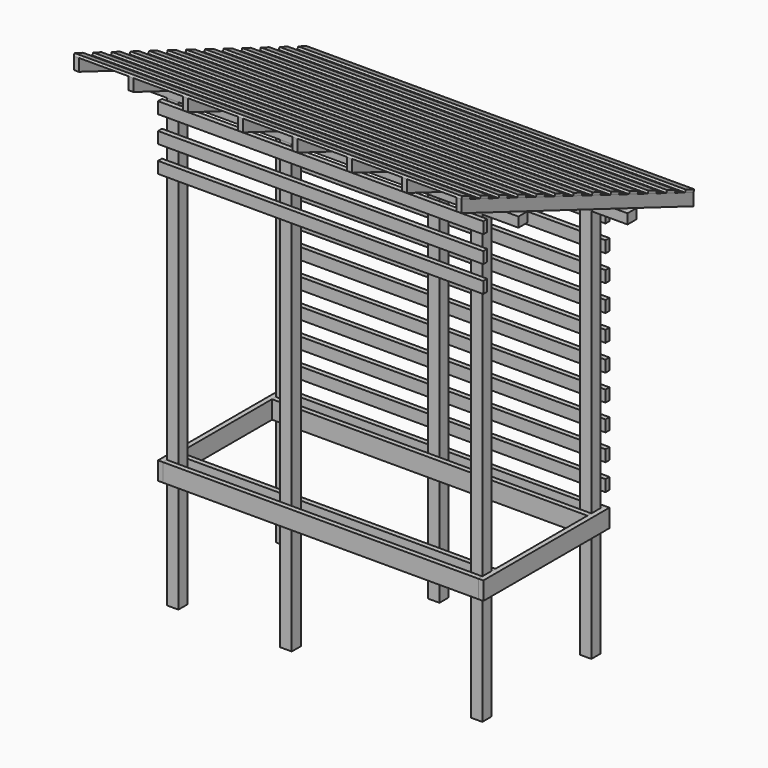
from build123d import *

# Parameters (mm, degrees)
F0_W           = 88.9
F0_H           = 88.9
F1_DEPTH       = 2667
F1_DEPTH_BACK  = 990.6
F2_W           = 38.1
F2_H           = 139.7
F3_DEPTH       = 2438.4
F4_W           = 38.1
F4_H           = 139.7
F5_DEPTH       = 1219.2
F6_W           = 1034.9947816896
F6_H           = 1003.2364382432
F6_W_2         = 556.0437153659
F6_H_2         = 436.7962663423
F7_DEPTH       = 2540
F10_W          = 88.9
F10_H          = 38.1
F11_DEPTH      = 2997.2
F14_W          = 38.1
F14_H          = 88.9
F15_DEPTH      = 914.4
F15_DEPTH_BACK = 2032
F16_W          = 807.5764443283
F16_H          = 1532.935500145
F16_W_2        = 1021.5139506448
F16_H_2        = 1471.8725383458
F17_DEPTH      = 3302
F19_DEPTH      = 2996.692
F20_W          = 38.1
F20_H          = 88.9
F21_DEPTH      = 2514.6


with BuildPart() as f1:
    # F0 (on Top) → F1 (new body, two sides)
    with BuildSketch(Plane.XY) as f1_sk:
        with Locations((44.45, 44.45)):
            Rectangle(F0_W, F0_H)
    extrude(amount=F1_DEPTH)
    extrude(f1_sk.sketch, amount=-F1_DEPTH_BACK)


with BuildPart() as f1b:
    # F0 (on Top) → F1, piece 2 (new body, two sides)
    with BuildSketch(Plane.XY) as f1_2_sk:
        with Locations((2393.95, 44.45)):
            Rectangle(F0_W, F0_H)
    extrude(amount=F1_DEPTH)
    extrude(f1_2_sk.sketch, amount=-F1_DEPTH_BACK)


with BuildPart() as f1c:
    # F0 (on Top) → F1, piece 3 (new body, two sides)
    with BuildSketch(Plane.XY) as f1_3_sk:
        with Locations((44.45, 1098.55)):
            Rectangle(F0_W, F0_H)
    extrude(amount=F1_DEPTH)
    extrude(f1_3_sk.sketch, amount=-F1_DEPTH_BACK)


with BuildPart() as f1d:
    # F0 (on Top) → F1, piece 4 (new body, two sides)
    with BuildSketch(Plane.XY) as f1_4_sk:
        with Locations((2393.95, 1098.55)):
            Rectangle(F0_W, F0_H)
    extrude(amount=F1_DEPTH)
    extrude(f1_4_sk.sketch, amount=-F1_DEPTH_BACK)


with BuildPart() as f1e:
    # F0 (on Top) → F1, piece 5 (new body, two sides)
    with BuildSketch(Plane.XY) as f1_5_sk:
        with Locations((920.75, 44.45)):
            Rectangle(F0_W, F0_H)
    extrude(amount=F1_DEPTH)
    extrude(f1_5_sk.sketch, amount=-F1_DEPTH_BACK)


with BuildPart() as f1f:
    # F0 (on Top) → F1, piece 6 (new body, two sides)
    with BuildSketch(Plane.XY) as f1_6_sk:
        with Locations((1219.2, 1098.55)):
            Rectangle(F0_W, F0_H)
    extrude(amount=F1_DEPTH)
    extrude(f1_6_sk.sketch, amount=-F1_DEPTH_BACK)


with BuildPart() as f3:
    # F2 (on Right) → F3 (new body)
    with BuildSketch(Plane.YZ):
        with Locations((-19.05, -69.85)):
            Rectangle(F2_W, F2_H)
    extrude(amount=F3_DEPTH)


with BuildPart() as f3b:
    # F2 (on Right) → F3, piece 2 (new body)
    with BuildSketch(Plane.YZ):
        with Locations((1162.05, -69.85)):
            Rectangle(F2_W, F2_H)
    extrude(amount=F3_DEPTH)


with BuildPart() as f3c:
    # F2 (on Right) → F3, piece 3 (new body)
    with BuildSketch(Plane.YZ):
        with Locations((1035.05, -69.85)):
            Rectangle(F2_W, F2_H)
    extrude(amount=F3_DEPTH)


with BuildPart() as f3d:
    # F2 (on Right) → F3, piece 4 (new body)
    with BuildSketch(Plane.YZ):
        with Locations((107.95, -69.85)):
            Rectangle(F2_W, F2_H)
    extrude(amount=F3_DEPTH)


with BuildPart() as f5:
    # F4 (on face) → F5 (new body)
    with BuildSketch(Plane.XZ.offset(38.1)):
        with Locations((-19.05, -69.85)):
            Rectangle(F4_W, F4_H)
    extrude(amount=-F5_DEPTH)


with BuildPart() as f5b:
    # F4 (on face) → F5, piece 2 (new body)
    with BuildSketch(Plane.XZ.offset(38.1)):
        with Locations((2457.45, -69.85)):
            Rectangle(F4_W, F4_H)
    extrude(amount=-F5_DEPTH)


with BuildPart() as f7_tool:
    # F6 (on face) → F7 (new body)
    with BuildSketch(Plane(origin=(-38.1, 0, 0), x_dir=(0, -1, 0), z_dir=(-1, 0, 0))):
        with Locations((-1108.8803946334, 2559.0182191216)):
            Rectangle(F6_W, F6_H)
        with Locations((-95.808646351, 2682.1981331711)):
            Rectangle(F6_W_2, F6_H_2)
    extrude(amount=-F7_DEPTH)


with BuildPart() as f1_1:
    add(f1.part)

    # F7: cut by f7_tool
    add(f7_tool.part, mode=Mode.SUBTRACT)


with BuildPart() as f1b_1:
    add(f1b.part)

    # F7: cut by f7_tool
    add(f7_tool.part, mode=Mode.SUBTRACT)


with BuildPart() as f1c_1:
    add(f1c.part)

    # F7: cut by f7_tool
    add(f7_tool.part, mode=Mode.SUBTRACT)


with BuildPart() as f1d_1:
    add(f1d.part)

    # F7: cut by f7_tool
    add(f7_tool.part, mode=Mode.SUBTRACT)


with BuildPart() as f1e_1:
    add(f1e.part)

    # F7: cut by f7_tool
    add(f7_tool.part, mode=Mode.SUBTRACT)


with BuildPart() as f1f_1:
    add(f1f.part)

    # F7: cut by f7_tool
    add(f7_tool.part, mode=Mode.SUBTRACT)


with BuildPart() as f11:
    # F10 (on offset) → F11 (new body, through all)
    with BuildSketch(Plane(origin=(-279.4, 0, 0), x_dir=(0, -1, 0), z_dir=(-1, 0, 0))):
        with Locations((-1098.55, 2114.55)):
            Rectangle(F10_W, F10_H)
        with Locations((-1098.55, 2076.45)):
            Rectangle(F10_W, F10_H)
    extrude(amount=-F11_DEPTH)


with BuildPart() as f11b:
    # F10 (on offset) → F11, piece 2 (new body, through all)
    with BuildSketch(Plane(origin=(-279.4, 0, 0), x_dir=(0, -1, 0), z_dir=(-1, 0, 0))):
        with Locations((-44.45, 2520.95)):
            Rectangle(F10_W, F10_H)
        with Locations((-44.45, 2482.85)):
            Rectangle(F10_W, F10_H)
    extrude(amount=-F11_DEPTH)


with BuildPart() as f15:
    # F14 (on face) → F15 (new body, two sides)
    with BuildSketch(Plane(origin=(0, -775.1558069, 298.855250853), x_dir=(1, 0, 0), z_dir=(0, -0.9330555694, 0.3597322677))) as f15_sk:
        with Locations((-260.35, 2446.3913448431)):
            Rectangle(F14_W, F14_H)
    extrude(amount=F15_DEPTH)
    extrude(f15_sk.sketch, amount=-F15_DEPTH_BACK)


with BuildPart() as f15b:
    # F14 (on face) → F15, piece 2 (new body, two sides)
    with BuildSketch(Plane(origin=(0, -775.1558069, 298.855250853), x_dir=(1, 0, 0), z_dir=(0, -0.9330555694, 0.3597322677))) as f15_2_sk:
        with Locations((162.306, 2446.3913448431)):
            Rectangle(F14_W, F14_H)
    extrude(amount=F15_DEPTH)
    extrude(f15_2_sk.sketch, amount=-F15_DEPTH_BACK)


with BuildPart() as f15c:
    # F14 (on face) → F15, piece 3 (new body, two sides)
    with BuildSketch(Plane(origin=(0, -775.1558069, 298.855250853), x_dir=(1, 0, 0), z_dir=(0, -0.9330555694, 0.3597322677))) as f15_3_sk:
        with Locations((584.962, 2446.3913448431)):
            Rectangle(F14_W, F14_H)
    extrude(amount=F15_DEPTH)
    extrude(f15_3_sk.sketch, amount=-F15_DEPTH_BACK)


with BuildPart() as f15d:
    # F14 (on face) → F15, piece 4 (new body, two sides)
    with BuildSketch(Plane(origin=(0, -775.1558069, 298.855250853), x_dir=(1, 0, 0), z_dir=(0, -0.9330555694, 0.3597322677))) as f15_4_sk:
        with Locations((1007.618, 2446.3913448431)):
            Rectangle(F14_W, F14_H)
    extrude(amount=F15_DEPTH)
    extrude(f15_4_sk.sketch, amount=-F15_DEPTH_BACK)


with BuildPart() as f15e:
    # F14 (on face) → F15, piece 5 (new body, two sides)
    with BuildSketch(Plane(origin=(0, -775.1558069, 298.855250853), x_dir=(1, 0, 0), z_dir=(0, -0.9330555694, 0.3597322677))) as f15_5_sk:
        with Locations((1430.274, 2446.3913448431)):
            Rectangle(F14_W, F14_H)
    extrude(amount=F15_DEPTH)
    extrude(f15_5_sk.sketch, amount=-F15_DEPTH_BACK)


with BuildPart() as f15f:
    # F14 (on face) → F15, piece 6 (new body, two sides)
    with BuildSketch(Plane(origin=(0, -775.1558069, 298.855250853), x_dir=(1, 0, 0), z_dir=(0, -0.9330555694, 0.3597322677))) as f15_6_sk:
        with Locations((1852.93, 2446.3913448431)):
            Rectangle(F14_W, F14_H)
    extrude(amount=F15_DEPTH)
    extrude(f15_6_sk.sketch, amount=-F15_DEPTH_BACK)


with BuildPart() as f15g:
    # F14 (on face) → F15, piece 7 (new body, two sides)
    with BuildSketch(Plane(origin=(0, -775.1558069, 298.855250853), x_dir=(1, 0, 0), z_dir=(0, -0.9330555694, 0.3597322677))) as f15_7_sk:
        with Locations((2275.586, 2446.3913448431)):
            Rectangle(F14_W, F14_H)
    extrude(amount=F15_DEPTH)
    extrude(f15_7_sk.sketch, amount=-F15_DEPTH_BACK)


with BuildPart() as f15h:
    # F14 (on face) → F15, piece 8 (new body, two sides)
    with BuildSketch(Plane(origin=(0, -775.1558069, 298.855250853), x_dir=(1, 0, 0), z_dir=(0, -0.9330555694, 0.3597322677))) as f15_8_sk:
        with Locations((2698.242, 2446.3913448431)):
            Rectangle(F14_W, F14_H)
    extrude(amount=F15_DEPTH)
    extrude(f15_8_sk.sketch, amount=-F15_DEPTH_BACK)


with BuildPart() as f17_tool:
    # F16 (on face) → F17 (new body)
    with BuildSketch(Plane.YZ.offset(2717.292)):
        with Locations((-953.8252221642, 2670.2895760536)):
            Rectangle(F16_W, F16_H)
        with Locations((2203.902477116, 1890.4313892214)):
            Rectangle(F16_W_2, F16_H_2)
    extrude(amount=-F17_DEPTH)


with BuildPart() as f15_1:
    add(f15.part)

    # F17: cut by f17_tool
    add(f17_tool.part, mode=Mode.SUBTRACT)


with BuildPart() as f15b_1:
    add(f15b.part)

    # F17: cut by f17_tool
    add(f17_tool.part, mode=Mode.SUBTRACT)


with BuildPart() as f15c_1:
    add(f15c.part)

    # F17: cut by f17_tool
    add(f17_tool.part, mode=Mode.SUBTRACT)


with BuildPart() as f15d_1:
    add(f15d.part)

    # F17: cut by f17_tool
    add(f17_tool.part, mode=Mode.SUBTRACT)


with BuildPart() as f15e_1:
    add(f15e.part)

    # F17: cut by f17_tool
    add(f17_tool.part, mode=Mode.SUBTRACT)


with BuildPart() as f15f_1:
    add(f15f.part)

    # F17: cut by f17_tool
    add(f17_tool.part, mode=Mode.SUBTRACT)


with BuildPart() as f15g_1:
    add(f15g.part)

    # F17: cut by f17_tool
    add(f17_tool.part, mode=Mode.SUBTRACT)


with BuildPart() as f15h_1:
    add(f15h.part)

    # F17: cut by f17_tool
    add(f17_tool.part, mode=Mode.SUBTRACT)


with BuildPart() as f19:
    # F18 (on face) → F19 (new body, through all)
    with BuildSketch(Plane.YZ.offset(2717.292)):
        Polygon((1610.1968616751, 2048.7542639932), (1693.1455017936, 2016.7740653932), (1699.9984014935, 2034.5487739901), (1617.049761375, 2066.52897259), align=None)
    extrude(amount=-F19_DEPTH)


with BuildPart() as f19b:
    # F18 (on face) → F19, piece 2 (new body, through all)
    with BuildSketch(Plane.YZ.offset(2717.292)):
        Polygon((1430.0788497916, 2118.1944785317), (1513.0274899101, 2086.2142799318), (1519.8803896101, 2103.9889885287), (1436.9317494916, 2135.9691871286), align=None)
    extrude(amount=-F19_DEPTH)


with BuildPart() as f19c:
    # F18 (on face) → F19, piece 3 (new body, through all)
    with BuildSketch(Plane.YZ.offset(2717.292)):
        Polygon((1249.9608379082, 2187.6346930703), (1332.9094780267, 2155.6544944704), (1339.7623777267, 2173.4292030673), (1256.8137376082, 2205.4094016672), align=None)
    extrude(amount=-F19_DEPTH)


with BuildPart() as f19d:
    # F18 (on face) → F19, piece 4 (new body, through all)
    with BuildSketch(Plane.YZ.offset(2717.292)):
        Polygon((1069.8428260248, 2257.0749076089), (1152.7914661433, 2225.094709009), (1159.6443658433, 2242.8694176058), (1076.6957257248, 2274.8496162058), align=None)
    extrude(amount=-F19_DEPTH)


with BuildPart() as f19e:
    # F18 (on face) → F19, piece 5 (new body, through all)
    with BuildSketch(Plane.YZ.offset(2717.292)):
        Polygon((889.7248141414, 2326.5151221475), (972.6734542599, 2294.5349235476), (979.5263539599, 2312.3096321444), (896.5777138414, 2344.2898307443), align=None)
    extrude(amount=-F19_DEPTH)


with BuildPart() as f19f:
    # F18 (on face) → F19, piece 6 (new body, through all)
    with BuildSketch(Plane.YZ.offset(2717.292)):
        Polygon((709.606802258, 2395.9553366861), (792.5554423765, 2363.9751380862), (799.4083420765, 2381.749846683), (716.459701958, 2413.7300452829), align=None)
    extrude(amount=-F19_DEPTH)


with BuildPart() as f19g:
    # F18 (on face) → F19, piece 7 (new body, through all)
    with BuildSketch(Plane.YZ.offset(2717.292)):
        Polygon((529.4887903746, 2465.3955512247), (612.4374304931, 2433.4153526248), (619.290330193, 2451.1900612216), (536.3416900745, 2483.1702598215), align=None)
    extrude(amount=-F19_DEPTH)


with BuildPart() as f19h:
    # F18 (on face) → F19, piece 8 (new body, through all)
    with BuildSketch(Plane.YZ.offset(2717.292)):
        Polygon((349.3707784911, 2534.8357657633), (432.3194186097, 2502.8555671634), (439.1723183096, 2520.6302757602), (356.2236781911, 2552.6104743601), align=None)
    extrude(amount=-F19_DEPTH)


with BuildPart() as f19i:
    # F18 (on face) → F19, piece 9 (new body, through all)
    with BuildSketch(Plane.YZ.offset(2717.292)):
        Polygon((169.2527666077, 2604.2759803019), (252.2014067262, 2572.295781702), (259.0543064262, 2590.0704902988), (176.1056663077, 2622.0506888987), align=None)
    extrude(amount=-F19_DEPTH)


with BuildPart() as f19j:
    # F18 (on face) → F19, piece 10 (new body, through all)
    with BuildSketch(Plane.YZ.offset(2717.292)):
        Polygon((-10.8652452757, 2673.7161948405), (72.0833948428, 2641.7359962406), (78.9362945428, 2659.5107048374), (-4.0123455757, 2691.4909034373), align=None)
    extrude(amount=-F19_DEPTH)


with BuildPart() as f19k:
    # F18 (on face) → F19, piece 11 (new body, through all)
    with BuildSketch(Plane.YZ.offset(2717.292)):
        Polygon((-190.9832571591, 2743.1564093791), (-108.0346170406, 2711.1762107792), (-101.1817173406, 2728.950919376), (-184.1303574591, 2760.9311179759), align=None)
    extrude(amount=-F19_DEPTH)


with BuildPart() as f19l:
    # F18 (on face) → F19, piece 12 (new body, through all)
    with BuildSketch(Plane.YZ.offset(2717.292)):
        Polygon((-371.1012690425, 2812.5966239177), (-288.152628924, 2780.6164253177), (-281.299729224, 2798.3911339146), (-364.2483693425, 2830.3713325145), align=None)
    extrude(amount=-F19_DEPTH)


with BuildPart() as f19m:
    # F18 (on face) → F19, piece 13 (new body, through all)
    with BuildSketch(Plane.YZ.offset(2717.292)):
        Polygon((-551.2192809259, 2882.0368384562), (-468.2706408074, 2850.0566398563), (-461.4177411075, 2867.8313484532), (-544.366381226, 2899.8115470531), align=None)
    extrude(amount=-F19_DEPTH)


with BuildPart() as f21:
    # F20 (on face) → F21 (new body, through all)
    with BuildSketch(Plane(origin=(-38.1, 0, 0), x_dir=(0, -1, 0), z_dir=(-1, 0, 0))):
        with Locations((-1162.05, 1993.9)):
            Rectangle(F20_W, F20_H)
    extrude(amount=-F21_DEPTH)


with BuildPart() as f21b:
    # F20 (on face) → F21, piece 2 (new body, through all)
    with BuildSketch(Plane(origin=(-38.1, 0, 0), x_dir=(0, -1, 0), z_dir=(-1, 0, 0))):
        with Locations((19.05, 1993.9)):
            Rectangle(F20_W, F20_H)
    extrude(amount=-F21_DEPTH)


with BuildPart() as f21c:
    # F20 (on face) → F21, piece 3 (new body, through all)
    with BuildSketch(Plane(origin=(-38.1, 0, 0), x_dir=(0, -1, 0), z_dir=(-1, 0, 0))):
        with Locations((-1162.05, 1790.7)):
            Rectangle(F20_W, F20_H)
    extrude(amount=-F21_DEPTH)


with BuildPart() as f21d:
    # F20 (on face) → F21, piece 4 (new body, through all)
    with BuildSketch(Plane(origin=(-38.1, 0, 0), x_dir=(0, -1, 0), z_dir=(-1, 0, 0))):
        with Locations((-1162.05, 1587.5)):
            Rectangle(F20_W, F20_H)
    extrude(amount=-F21_DEPTH)


with BuildPart() as f21e:
    # F20 (on face) → F21, piece 5 (new body, through all)
    with BuildSketch(Plane(origin=(-38.1, 0, 0), x_dir=(0, -1, 0), z_dir=(-1, 0, 0))):
        with Locations((-1162.05, 1384.3)):
            Rectangle(F20_W, F20_H)
    extrude(amount=-F21_DEPTH)


with BuildPart() as f21f:
    # F20 (on face) → F21, piece 6 (new body, through all)
    with BuildSketch(Plane(origin=(-38.1, 0, 0), x_dir=(0, -1, 0), z_dir=(-1, 0, 0))):
        with Locations((-1162.05, 1181.1)):
            Rectangle(F20_W, F20_H)
    extrude(amount=-F21_DEPTH)


with BuildPart() as f21g:
    # F20 (on face) → F21, piece 7 (new body, through all)
    with BuildSketch(Plane(origin=(-38.1, 0, 0), x_dir=(0, -1, 0), z_dir=(-1, 0, 0))):
        with Locations((-1162.05, 977.9)):
            Rectangle(F20_W, F20_H)
    extrude(amount=-F21_DEPTH)


with BuildPart() as f21h:
    # F20 (on face) → F21, piece 8 (new body, through all)
    with BuildSketch(Plane(origin=(-38.1, 0, 0), x_dir=(0, -1, 0), z_dir=(-1, 0, 0))):
        with Locations((-1162.05, 774.7)):
            Rectangle(F20_W, F20_H)
    extrude(amount=-F21_DEPTH)


with BuildPart() as f21i:
    # F20 (on face) → F21, piece 9 (new body, through all)
    with BuildSketch(Plane(origin=(-38.1, 0, 0), x_dir=(0, -1, 0), z_dir=(-1, 0, 0))):
        with Locations((-1162.05, 571.5)):
            Rectangle(F20_W, F20_H)
    extrude(amount=-F21_DEPTH)


with BuildPart() as f21j:
    # F20 (on face) → F21, piece 10 (new body, through all)
    with BuildSketch(Plane(origin=(-38.1, 0, 0), x_dir=(0, -1, 0), z_dir=(-1, 0, 0))):
        with Locations((-1162.05, 368.3)):
            Rectangle(F20_W, F20_H)
    extrude(amount=-F21_DEPTH)


with BuildPart() as f21k:
    # F20 (on face) → F21, piece 11 (new body, through all)
    with BuildSketch(Plane(origin=(-38.1, 0, 0), x_dir=(0, -1, 0), z_dir=(-1, 0, 0))):
        with Locations((-1162.05, 165.1)):
            Rectangle(F20_W, F20_H)
    extrude(amount=-F21_DEPTH)


with BuildPart() as f21l:
    # F20 (on face) → F21, piece 12 (new body, through all)
    with BuildSketch(Plane(origin=(-38.1, 0, 0), x_dir=(0, -1, 0), z_dir=(-1, 0, 0))):
        with Locations((19.05, 2197.1)):
            Rectangle(F20_W, F20_H)
    extrude(amount=-F21_DEPTH)


with BuildPart() as f21m:
    # F20 (on face) → F21, piece 13 (new body, through all)
    with BuildSketch(Plane(origin=(-38.1, 0, 0), x_dir=(0, -1, 0), z_dir=(-1, 0, 0))):
        with Locations((19.05, 2400.3)):
            Rectangle(F20_W, F20_H)
    extrude(amount=-F21_DEPTH)


solid = Compound([f3.part, f3b.part, f3c.part, f3d.part, f5.part, f5b.part, f1_1.part, f1b_1.part, f1c_1.part, f1d_1.part, f1e_1.part, f1f_1.part, f11.part, f11b.part, f15_1.part, f15b_1.part, f15c_1.part, f15d_1.part, f15e_1.part, f15f_1.part, f15g_1.part, f15h_1.part, f19.part, f19b.part, f19c.part, f19d.part, f19e.part, f19f.part, f19g.part, f19h.part, f19i.part, f19j.part, f19k.part, f19l.part, f19m.part, f21.part, f21b.part, f21c.part, f21d.part, f21e.part, f21f.part, f21g.part, f21h.part, f21i.part, f21j.part, f21k.part, f21l.part, f21m.part])
